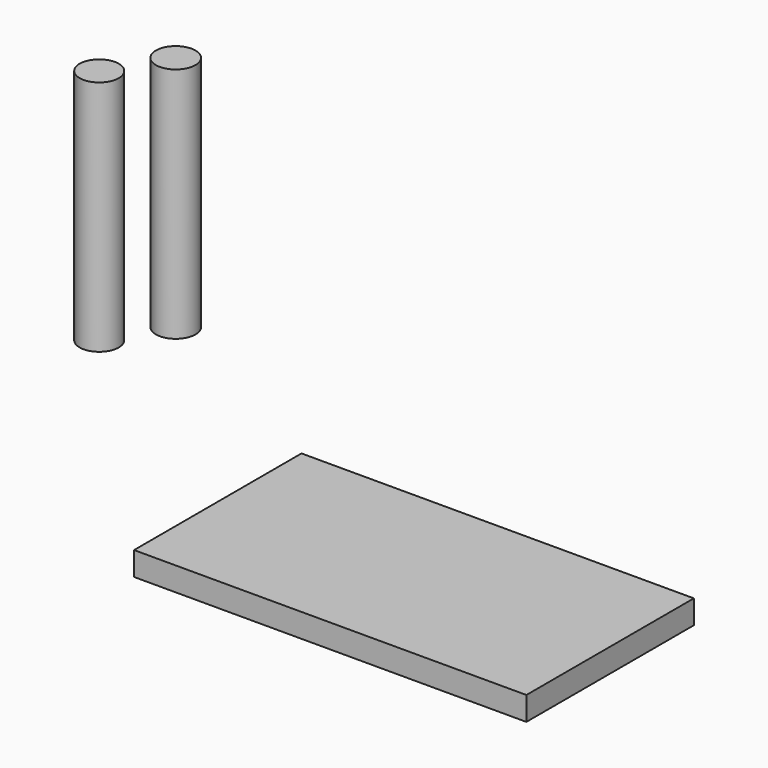
from build123d import *

# Parameters (mm, degrees)
F0_R     = 4.191738
F1_DEPTH = 50.8
F2_W     = 84.051494
F2_H     = 44.839967
F3_DEPTH = 5.08
F4_R     = 4.243817
F5_DEPTH = 50.8


with BuildPart() as f1:
    # F0 (on Top) → F1 (new body)
    with BuildSketch(Plane.XY):
        with Locations((-120.303981, -33.870894)):
            Circle(F0_R)
    extrude(amount=F1_DEPTH)


with BuildPart() as f3:
    # F2 (on Top) → F3 (new body)
    with BuildSketch(Plane.XY):
        with Locations((-20.157313, -74.775433)):
            Rectangle(F2_W, F2_H)
    extrude(amount=F3_DEPTH)


with BuildPart() as f5:
    # F4 (on Top) → F5 (new body)
    with BuildSketch(Plane.XY):
        with Locations((-113.286242, -22.166153)):
            Circle(F4_R)
    extrude(amount=F5_DEPTH)


solid = Compound([f1.part, f3.part, f5.part])
